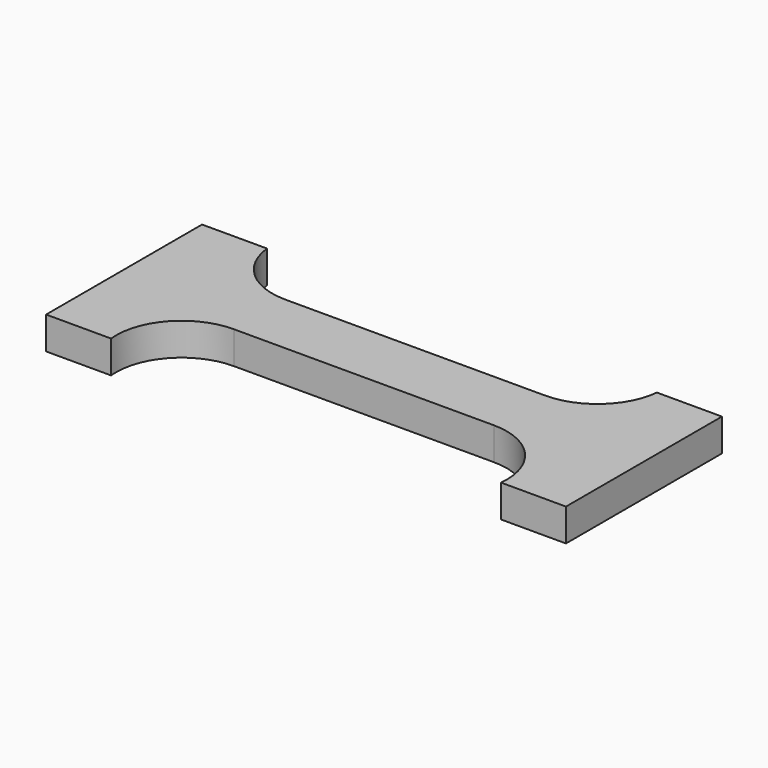
from build123d import *

# Parameters (mm, degrees)
F1_DEPTH = 6.35


with BuildPart() as f1:
    # F0 (on Top) → F1 (new body)
    with BuildSketch(Plane.XY):
        with BuildLine():
            Line((0, -6.279444), (0, 0))
            Line((0, 0), (0, 6.279444))
            Line((0, 6.279444), (-25.4, 6.279444))
            ThreePointArc((-25.4, 6.279444), (-33.943051, 9.557721), (-38.1, 17.709444))
            Line((-38.1, 17.709444), (-50.8, 17.709444))
            Line((-50.8, 17.709444), (-50.8, -20.390556))
            Line((-50.8, -20.390556), (-38.1, -20.390556))
            ThreePointArc((-38.1, -20.390556), (-34.892279, -10.506949), (-25.4, -6.279444))
            Line((-25.4, -6.279444), (0, -6.279444))
        make_face()
        with BuildLine():
            Line((0, 6.279444), (0, 0))
            Line((0, 0), (0, -6.279444))
            Line((0, -6.279444), (25.4, -6.279444))
            ThreePointArc((25.4, -6.279444), (34.892279, -10.506949), (38.1, -20.390556))
            Line((38.1, -20.390556), (50.8, -20.390556))
            Line((50.8, -20.390556), (50.8, 17.709444))
            Line((50.8, 17.709444), (38.1, 17.709444))
            ThreePointArc((38.1, 17.709444), (33.943051, 9.557721), (25.4, 6.279444))
            Line((25.4, 6.279444), (0, 6.279444))
        make_face()
    extrude(amount=F1_DEPTH)


solid = f1.part
